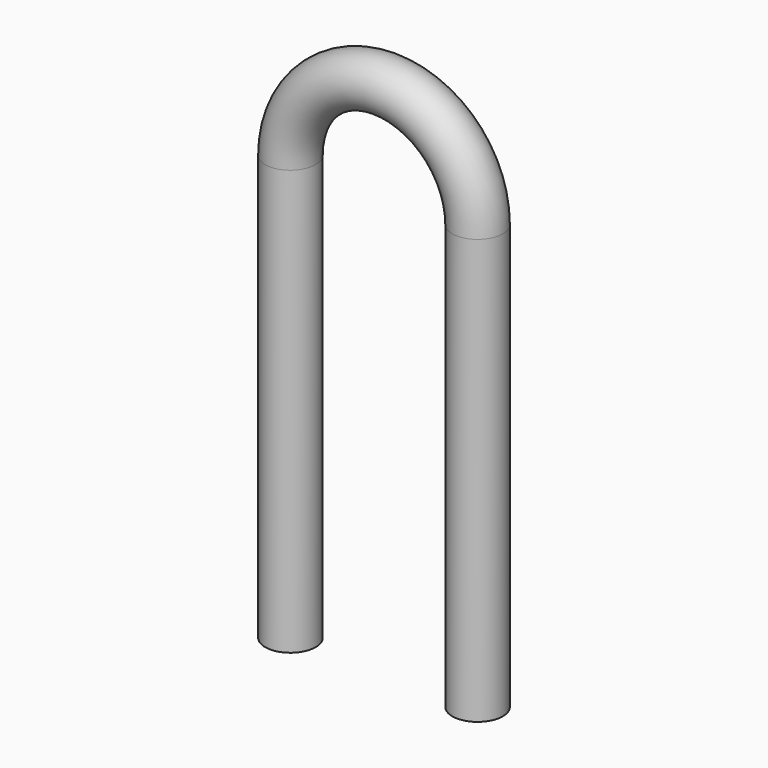
from build123d import *

# Parameters (mm, degrees)
F2_R = 0.65405


with BuildPart() as f3:
    # F3: sweep along a path in F0
    with BuildLine(Plane.XZ) as f3_path:
        Line((0, 0), (0, 11.0109))
        ThreePointArc((0, 11.0109), (2.4257, 13.4366), (4.8514, 11.0109))
        Line((4.8514, 11.0109), (4.8514, 0))
    # F2 (on plane+point) → F3 (sweep)
    with BuildSketch(Plane.XY):
        Circle(F2_R)
    sweep(path=f3_path.line)


solid = f3.part
